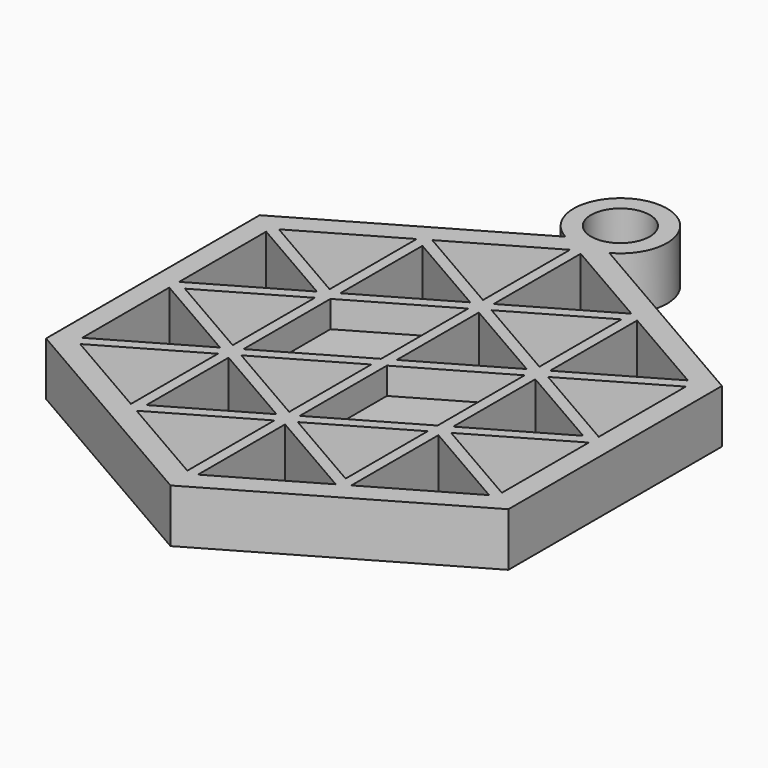
from build123d import *

# Parameters (mm, degrees)
F0_R     = 2.2
F1_DEPTH = 4
F3_DEPTH = 2


with BuildPart() as f1:
    # F0 (on Top) → F1 (new body)
    with BuildSketch(Plane.XY):
        with BuildLine():
            Line((17.320508, 10), (1.642827, 19.051514))
            ThreePointArc((1.642827, 19.051514), (0, 25.642002), (-1.642827, 19.051514))
            Line((-1.642827, 19.051514), (-17.320508, 10))
            Line((-17.320508, 10), (-17.320508, -10))
            Line((-17.320508, -10), (0, -20))
            Line((0, -20), (17.320508, -10))
            Line((17.320508, -10), (17.320508, 10))
        make_face()
        Polygon((-8.260254, -5.23094), (-8.260254, -13.383419), (-15.320508, -9.30718), align=None, mode=Mode.SUBTRACT)
        Polygon((-0.4, -9.76906), (-0.4, -17.921539), (-7.460254, -13.845299), align=None, mode=Mode.SUBTRACT)
        Polygon((-0.8, -9.07624), (-7.460254, -12.921539), (-7.460254, -5.23094), align=None, mode=Mode.SUBTRACT)
        Polygon((-8.660254, -4.53812), (-15.720508, -8.614359), (-15.720508, -0.46188), align=None, mode=Mode.SUBTRACT)
        Polygon((-8.260254, -3.845299), (-14.920508, 0), (-8.260254, 3.845299), align=None, mode=Mode.SUBTRACT)
        Polygon((-0.4, -8.383419), (-7.060254, -4.53812), (-0.4, -0.69282), align=None, mode=Mode.SUBTRACT)
        Polygon((-7.460254, -3.845299), (-7.460254, 4.30718), (-0.4, 8.383419), (-0.4, 0.23094), align=None, mode=Mode.SUBTRACT)
        Polygon((7.460254, -13.845299), (0.4, -17.921539), (0.4, -9.76906), align=None, mode=Mode.SUBTRACT)
        Polygon((7.460254, -5.23094), (7.460254, -12.921539), (0.8, -9.07624), align=None, mode=Mode.SUBTRACT)
        Polygon((8.260254, -5.23094), (15.320508, -9.30718), (8.260254, -13.383419), align=None, mode=Mode.SUBTRACT)
        Polygon((0.4, -8.383419), (0.4, -0.23094), (7.460254, 3.845299), (7.460254, -4.30718), align=None, mode=Mode.SUBTRACT)
        Polygon((15.720508, -0.46188), (15.720508, -8.614359), (8.660254, -4.53812), align=None, mode=Mode.SUBTRACT)
        Polygon((8.260254, 3.845299), (14.920508, 0), (8.260254, -3.845299), align=None, mode=Mode.SUBTRACT)
        Polygon((-8.660254, 4.53812), (-15.720508, 0.46188), (-15.720508, 8.614359), align=None, mode=Mode.SUBTRACT)
        Polygon((-8.260254, 5.23094), (-15.320508, 9.30718), (-8.260254, 13.383419), align=None, mode=Mode.SUBTRACT)
        Polygon((-7.460254, 12.921539), (-0.8, 9.07624), (-7.460254, 5.23094), align=None, mode=Mode.SUBTRACT)
        Polygon((-0.4, 9.76906), (-7.460254, 13.845299), (-0.4, 17.921539), align=None, mode=Mode.SUBTRACT)
        Polygon((0.4, 8.383419), (7.060254, 4.53812), (0.4, 0.69282), align=None, mode=Mode.SUBTRACT)
        Polygon((7.460254, 5.23094), (0.8, 9.07624), (7.460254, 12.921539), align=None, mode=Mode.SUBTRACT)
        Polygon((0.4, 9.76906), (0.4, 17.921539), (7.460254, 13.845299), align=None, mode=Mode.SUBTRACT)
        Polygon((8.660254, 4.53812), (15.720508, 8.614359), (15.720508, 0.46188), align=None, mode=Mode.SUBTRACT)
        Polygon((8.260254, 5.23094), (8.260254, 13.383419), (15.320508, 9.30718), align=None, mode=Mode.SUBTRACT)
        with Locations((0, 22.142002)):
            Circle(F0_R, mode=Mode.SUBTRACT)
    extrude(amount=F1_DEPTH)

    # F2 (on face) → F3 (join)
    with BuildSketch(Plane(origin=(0, 0, 0), x_dir=(1, 0, 0), z_dir=(0, 0, -1))):
        Polygon((0.4, 0.23094), (7.460254, -3.845299), (7.460254, 4.30718), (0.4, 8.383419), align=None)
        Polygon((-7.460254, -4.30718), (-0.4, -8.383419), (-0.4, -0.23094), (-7.460254, 3.845299), align=None)
    extrude(amount=-F3_DEPTH)


solid = f1.part
